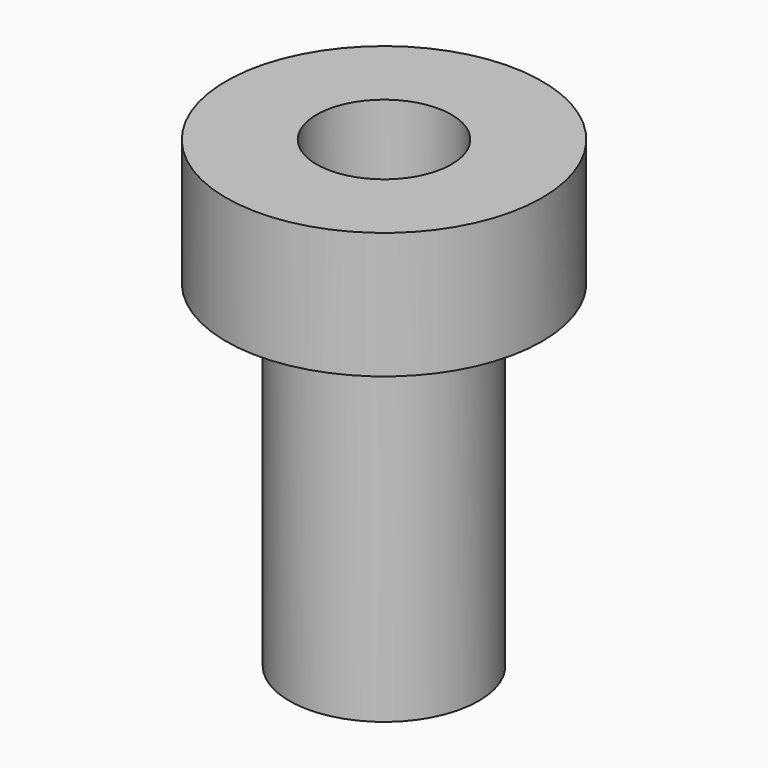
from build123d import *

# Parameters (mm, degrees)
SKETCH069_R     = 2.25
PAD026_DEPTH    = 8
SKETCH070_R     = 3.75
PAD027_DEPTH    = 3
SKETCH071_R     = 1.6
POCKET034_DEPTH = 11


with BuildPart() as part:
    # Sketch069 → Pad026 (new body)
    with BuildSketch(Plane.XY):
        Circle(SKETCH069_R)
    extrude(amount=PAD026_DEPTH)

    # Sketch070 (on Face3 of Pad026) → Pad027 (join)
    with BuildSketch(Plane.XY.offset(8)):
        Circle(SKETCH070_R)
    extrude(amount=PAD027_DEPTH)

    # Sketch071 (on Face3 of Pad027) → Pocket034 (cut)
    with BuildSketch(Plane.XY.offset(11)):
        Circle(SKETCH071_R)
    extrude(amount=-POCKET034_DEPTH, mode=Mode.SUBTRACT)


solid = part.part
